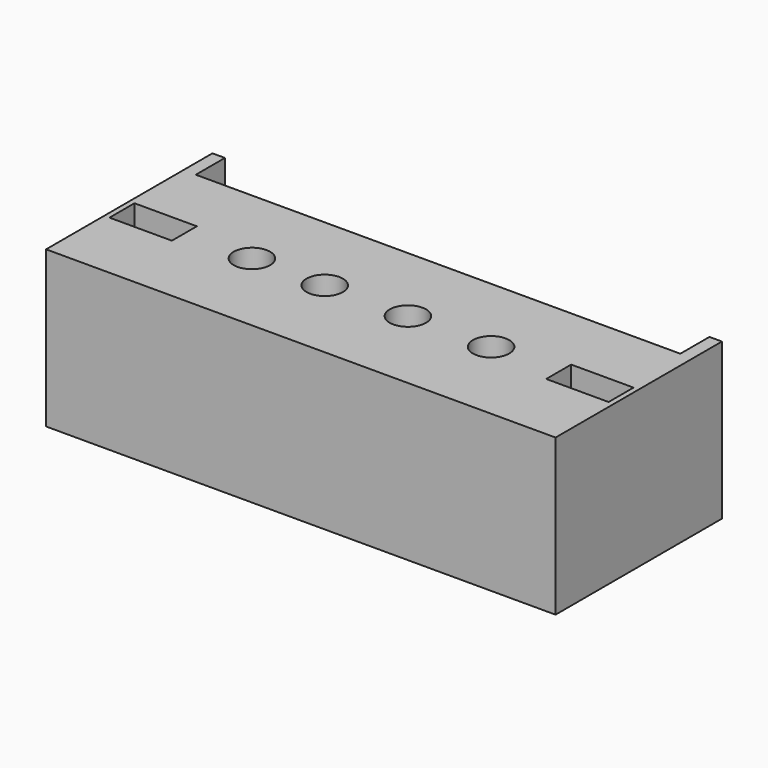
from build123d import *

# Parameters (mm, degrees)
PRISM004_DEPTH            = 3
CYLINDER006_R             = 1.75
CYLINDER006_DEPTH         = 20
BOX006_W                  = 6
BOX006_H                  = 20
BOX006_DEPTH              = 3
FUSION004_PLACEMENT_ANGLE = 180
PRISM005_DEPTH            = 3
CYLINDER007_R             = 1.75
CYLINDER007_DEPTH         = 20
BOX007_W                  = 6
BOX007_H                  = 20
BOX007_DEPTH              = 3
FUSION005_PLACEMENT_ANGLE = 180
PRISM002_DEPTH            = 3
CYLINDER004_R             = 1.75
CYLINDER004_DEPTH         = 20
BOX003_W                  = 6
BOX003_H                  = 20
BOX003_DEPTH              = 3
FUSION001_PLACEMENT_ANGLE = 180
PRISM003_DEPTH            = 3
CYLINDER005_R             = 1.75
CYLINDER005_DEPTH         = 20
BOX005_W                  = 6
BOX005_H                  = 20
BOX005_DEPTH              = 3
FUSION002_PLACEMENT_ANGLE = 180
FUSION007_PLACEMENT_ANGLE = 180
PRISM006_DEPTH            = 3
CYLINDER008_R             = 1.75
CYLINDER008_DEPTH         = 20
BOX008_W                  = 6
BOX008_H                  = 20
BOX008_DEPTH              = 3
FUSION008_ROLL_ANGLE      = 90
FUSION008_PLACEMENT_ANGLE = 180
PRISM007_DEPTH            = 3
CYLINDER009_R             = 1.75
CYLINDER009_DEPTH         = 20
BOX009_W                  = 6
BOX009_H                  = 20
BOX009_DEPTH              = 3
FUSION009_ROLL_ANGLE      = 90
FUSION009_PLACEMENT_ANGLE = 180
CYLINDER001_R             = 1.5
CYLINDER001_DEPTH         = 10
CYLINDER_R                = 1.5
CYLINDER_DEPTH            = 10
BOX001_W                  = 46.6
BOX001_H                  = 10
BOX001_DEPTH              = 21
BOX_W                     = 49
BOX_H                     = 5
BOX_DEPTH                 = 15
BOX004_W                  = 49
BOX004_H                  = 16
BOX004_DEPTH              = 15


with BuildPart() as prisma004:
    # Prism004 → Prism004 (new body)
    with BuildSketch(Plane(origin=(34, 7.5, 3), x_dir=(0, 1, 0), z_dir=(0, 0, 1))):
        Polygon((3.25, 0), (1.625, 2.814583), (-1.625, 2.814583), (-3.25, 0), (-1.625, -2.814583), (1.625, -2.814583), align=None)
    extrude(amount=PRISM004_DEPTH)


with BuildPart() as cilindro006:
    # Cylinder006 → Cylinder006 (new body)
    with BuildSketch(Plane(origin=(34, 7.5, -1), x_dir=(1, 0, 0), z_dir=(0, 0, 1))):
        Circle(CYLINDER006_R)
    extrude(amount=CYLINDER006_DEPTH)


with BuildPart() as fusion004:
    # Box006 → Box006 (new body)
    with BuildSketch(Plane(origin=(31, 9, 3), x_dir=(1, 0, 0), z_dir=(0, 0, 1))):
        with Locations((3, 10)):
            Rectangle(BOX006_W, BOX006_H)
    extrude(amount=BOX006_DEPTH)

    # Fusion004: union Prisma004, Cilindro006
    add(prisma004.part)
    add(cilindro006.part)


with BuildPart() as fusion004_1:
    # Fusion004 placement: moved
    add(fusion004.part.moved(Location((-14, -3, 16))).rotate(Axis((-14, -3, 16), (1, 0, 0)), FUSION004_PLACEMENT_ANGLE))


with BuildPart() as prisma005:
    # Prism005 → Prism005 (new body)
    with BuildSketch(Plane(origin=(34, 7.5, 3), x_dir=(0, 1, 0), z_dir=(0, 0, 1))):
        Polygon((3.25, 0), (1.625, 2.814583), (-1.625, 2.814583), (-3.25, 0), (-1.625, -2.814583), (1.625, -2.814583), align=None)
    extrude(amount=PRISM005_DEPTH)


with BuildPart() as cilindro007:
    # Cylinder007 → Cylinder007 (new body)
    with BuildSketch(Plane(origin=(34, 7.5, -1), x_dir=(1, 0, 0), z_dir=(0, 0, 1))):
        Circle(CYLINDER007_R)
    extrude(amount=CYLINDER007_DEPTH)


with BuildPart() as fusion006:
    # Box007 → Box007 (new body)
    with BuildSketch(Plane(origin=(31, 9, 3), x_dir=(1, 0, 0), z_dir=(0, 0, 1))):
        with Locations((3, 10)):
            Rectangle(BOX007_W, BOX007_H)
    extrude(amount=BOX007_DEPTH)

    # Fusion005: union Prisma005, Cilindro007
    add(prisma005.part)
    add(cilindro007.part)


with BuildPart() as fusion006_1:
    # Fusion005 placement: moved
    add(fusion006.part.moved(Location((2, -3, 16))).rotate(Axis((2, -3, 16), (1, 0, 0)), FUSION005_PLACEMENT_ANGLE))

    # Fusion006: union Fusion004
    add(fusion004_1.part)


with BuildPart() as prisma002:
    # Prism002 → Prism002 (new body)
    with BuildSketch(Plane(origin=(34, 7.5, 3), x_dir=(0, 1, 0), z_dir=(0, 0, 1))):
        Polygon((3.25, 0), (1.625, 2.814583), (-1.625, 2.814583), (-3.25, 0), (-1.625, -2.814583), (1.625, -2.814583), align=None)
    extrude(amount=PRISM002_DEPTH)


with BuildPart() as cilindro004:
    # Cylinder004 → Cylinder004 (new body)
    with BuildSketch(Plane(origin=(34, 7.5, -1), x_dir=(1, 0, 0), z_dir=(0, 0, 1))):
        Circle(CYLINDER004_R)
    extrude(amount=CYLINDER004_DEPTH)


with BuildPart() as fusion001:
    # Box003 → Box003 (new body)
    with BuildSketch(Plane(origin=(31, 9, 3), x_dir=(1, 0, 0), z_dir=(0, 0, 1))):
        with Locations((3, 10)):
            Rectangle(BOX003_W, BOX003_H)
    extrude(amount=BOX003_DEPTH)

    # Fusion001: union Prisma002, Cilindro004
    add(prisma002.part)
    add(cilindro004.part)


with BuildPart() as fusion001_1:
    # Fusion001 placement: moved
    add(fusion001.part.moved(Location((47, -3, 0))).rotate(Axis((47, -3, 0), (0, 0, 1)), FUSION001_PLACEMENT_ANGLE))


with BuildPart() as prisma003:
    # Prism003 → Prism003 (new body)
    with BuildSketch(Plane(origin=(34, 7.5, 3), x_dir=(0, 1, 0), z_dir=(0, 0, 1))):
        Polygon((3.25, 0), (1.625, 2.814583), (-1.625, 2.814583), (-3.25, 0), (-1.625, -2.814583), (1.625, -2.814583), align=None)
    extrude(amount=PRISM003_DEPTH)


with BuildPart() as cilindro005:
    # Cylinder005 → Cylinder005 (new body)
    with BuildSketch(Plane(origin=(34, 7.5, -1), x_dir=(1, 0, 0), z_dir=(0, 0, 1))):
        Circle(CYLINDER005_R)
    extrude(amount=CYLINDER005_DEPTH)


with BuildPart() as fusion007:
    # Box005 → Box005 (new body)
    with BuildSketch(Plane(origin=(31, 9, 3), x_dir=(1, 0, 0), z_dir=(0, 0, 1))):
        with Locations((3, 10)):
            Rectangle(BOX005_W, BOX005_H)
    extrude(amount=BOX005_DEPTH)

    # Fusion002: union Prisma003, Cilindro005
    add(prisma003.part)
    add(cilindro005.part)


with BuildPart() as fusion007_1:
    # Fusion002 placement: moved
    add(fusion007.part.moved(Location((62, -3, 0))).rotate(Axis((62, -3, 0), (0, 0, 1)), FUSION002_PLACEMENT_ANGLE))

    # Fusion003: union Fusion001
    add(fusion001_1.part)

    # Fusion007: union Fusion006
    add(fusion006_1.part)


with BuildPart() as fusion007_2:
    # Fusion007 placement: moved
    add(fusion007_1.part.moved(Location((0, -17, 16))).rotate(Axis((0, -17, 16), (1, 0, 0)), FUSION007_PLACEMENT_ANGLE))


with BuildPart() as prisma006:
    # Prism006 → Prism006 (new body)
    with BuildSketch(Plane(origin=(34, 7.5, 3), x_dir=(0, 1, 0), z_dir=(0, 0, 1))):
        Polygon((3.25, 0), (1.625, 2.814583), (-1.625, 2.814583), (-3.25, 0), (-1.625, -2.814583), (1.625, -2.814583), align=None)
    extrude(amount=PRISM006_DEPTH)


with BuildPart() as cilindro008:
    # Cylinder008 → Cylinder008 (new body)
    with BuildSketch(Plane(origin=(34, 7.5, -1), x_dir=(1, 0, 0), z_dir=(0, 0, 1))):
        Circle(CYLINDER008_R)
    extrude(amount=CYLINDER008_DEPTH)


with BuildPart() as fusion008:
    # Box008 → Box008 (new body)
    with BuildSketch(Plane(origin=(31, 9, 3), x_dir=(1, 0, 0), z_dir=(0, 0, 1))):
        with Locations((3, 10)):
            Rectangle(BOX008_W, BOX008_H)
    extrude(amount=BOX008_DEPTH)

    # Fusion008: union Prisma006, Cilindro008
    add(prisma006.part)
    add(cilindro008.part)


with BuildPart() as fusion008_1:
    # Fusion008 roll: moved
    add(fusion008.part.rotate(Axis((0, 0, 0), (1, 0, 0)), FUSION008_ROLL_ANGLE))


with BuildPart() as fusion008_2:
    # Fusion008 placement: moved
    add(fusion008_1.part.moved(Location((37.5, -11, -4))).rotate(Axis((37.5, -11, -4), (0, 0, 1)), FUSION008_PLACEMENT_ANGLE))


with BuildPart() as prisma007:
    # Prism007 → Prism007 (new body)
    with BuildSketch(Plane(origin=(34, 7.5, 3), x_dir=(0, 1, 0), z_dir=(0, 0, 1))):
        Polygon((3.25, 0), (1.625, 2.814583), (-1.625, 2.814583), (-3.25, 0), (-1.625, -2.814583), (1.625, -2.814583), align=None)
    extrude(amount=PRISM007_DEPTH)


with BuildPart() as cilindro009:
    # Cylinder009 → Cylinder009 (new body)
    with BuildSketch(Plane(origin=(34, 7.5, -1), x_dir=(1, 0, 0), z_dir=(0, 0, 1))):
        Circle(CYLINDER009_R)
    extrude(amount=CYLINDER009_DEPTH)


with BuildPart() as fusion011:
    # Box009 → Box009 (new body)
    with BuildSketch(Plane(origin=(31, 9, 3), x_dir=(1, 0, 0), z_dir=(0, 0, 1))):
        with Locations((3, 10)):
            Rectangle(BOX009_W, BOX009_H)
    extrude(amount=BOX009_DEPTH)

    # Fusion009: union Prisma007, Cilindro009
    add(prisma007.part)
    add(cilindro009.part)


with BuildPart() as fusion011_1:
    # Fusion009 roll: moved
    add(fusion011.part.rotate(Axis((0, 0, 0), (1, 0, 0)), FUSION009_ROLL_ANGLE))


with BuildPart() as fusion011_2:
    # Fusion009 placement: moved
    add(fusion011_1.part.moved(Location((79.5, -11, -4))).rotate(Axis((79.5, -11, -4), (0, 0, 1)), FUSION009_PLACEMENT_ANGLE))

    # Fusion011: union Fusion007, Fusion008
    add(fusion007_2.part)
    add(fusion008_2.part)


with BuildPart() as cilindro001:
    # Cylinder001 → Cylinder001 (new body)
    with BuildSketch(Plane(origin=(45.7, 8, 3.2), x_dir=(1, 0, 0), z_dir=(0, -1, 0))):
        Circle(CYLINDER001_R)
    extrude(amount=CYLINDER001_DEPTH)


with BuildPart() as fusion:
    # Cylinder → Cylinder (new body)
    with BuildSketch(Plane(origin=(3.2, 8, 3.2), x_dir=(1, 0, 0), z_dir=(0, -1, 0))):
        Circle(CYLINDER_R)
    extrude(amount=CYLINDER_DEPTH)

    # Fusion: union Cilindro001
    add(cilindro001.part)


with BuildPart() as cubo001:
    # Box001 → Box001 (new body)
    with BuildSketch(Plane(origin=(1.2, 1.5, 1.2), x_dir=(1, 0, 0), z_dir=(0, 0, 1))):
        with Locations((23.3, 5)):
            Rectangle(BOX001_W, BOX001_H)
    extrude(amount=BOX001_DEPTH)


with BuildPart() as cut001:
    # Box → Box (new body)
    with BuildSketch(Plane.XY):
        with Locations((24.5, 2.5)):
            Rectangle(BOX_W, BOX_H)
    extrude(amount=BOX_DEPTH)

    # Cut: cut Cubo001
    add(cubo001.part, mode=Mode.SUBTRACT)

    # Cut001: cut Fusion
    add(fusion.part, mode=Mode.SUBTRACT)


with BuildPart() as cut002:
    # Box004 → Box004 (new body)
    with BuildSketch(Plane(origin=(0, -15, 0), x_dir=(1, 0, 0), z_dir=(0, 0, 1))):
        with Locations((24.5, 8)):
            Rectangle(BOX004_W, BOX004_H)
    extrude(amount=BOX004_DEPTH)

    # Fusion010: union Cut001
    add(cut001.part)

    # Cut002: cut Fusion011
    add(fusion011_2.part, mode=Mode.SUBTRACT)


solid = cut002.part
